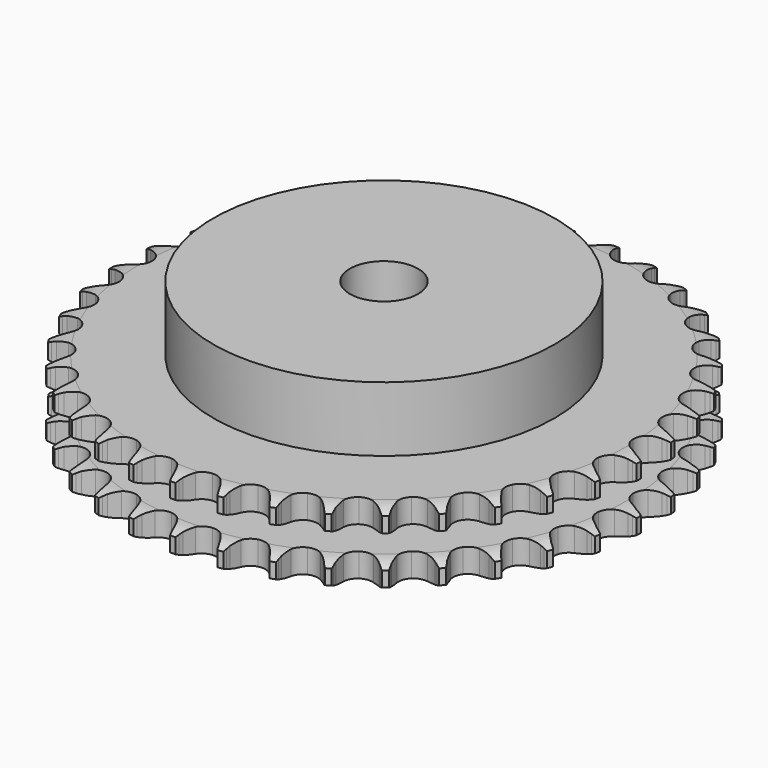
from build123d import *

# Parameters (mm, degrees)
PAD_DEPTH         = 21
SKETCH001_R       = 50
PAD001_DEPTH      = 40
SKETCH002_R       = 10
POCKET_DEPTH      = 0.001
POCKET_DEPTH_BACK = 40.001


with BuildPart() as part:
    # Sprocket → Pad (new body)
    with BuildSketch(Plane.XY):
        with BuildLine():
            ThreePointArc((-6.673059, 78.402771), (-5.93416, 77.380789), (-5.393637, 76.241379))
            Line((-5.393637, 76.241379), (-4.978563, 75.109289))
            ThreePointArc((-4.978563, 75.109289), (-4.321728, 73.651627), (-3.462685, 72.3032))
            ThreePointArc((-3.462685, 72.3032), (-1.937803, 71.022139), (0, 70.562469))
            ThreePointArc((0, 70.562469), (1.937803, 71.022139), (3.462685, 72.3032))
            ThreePointArc((3.462685, 72.3032), (4.321728, 73.651627), (4.978563, 75.109289))
            Line((4.978563, 75.109289), (5.393637, 76.241379))
            ThreePointArc((5.393637, 76.241379), (5.93416, 77.380789), (6.673059, 78.402771))
            ThreePointArc((6.673059, 78.402771), (7.228614, 77.270614), (7.568801, 76.056245))
            Line((7.568801, 76.056245), (7.78658, 74.870292))
            ThreePointArc((7.78658, 74.870292), (8.187622, 73.322591), (8.806423, 71.848381))
            ThreePointArc((8.806423, 71.848381), (10.09287, 70.328041), (11.925115, 69.547492))
            ThreePointArc((11.925115, 69.547492), (13.91273, 69.67306), (15.632177, 70.677987))
            Line((15.632177, 70.677987), (17.600483, 73.187529))
            ThreePointArc((17.600483, 73.187529), (17.886516, 73.718501), (18.20091, 74.233187))
            ThreePointArc((18.20091, 74.233187), (18.926219, 75.264859), (19.827206, 76.147266))
            ThreePointArc((19.827206, 76.147266), (20.183434, 74.937505), (20.313499, 73.683112))
            Line((20.313499, 73.683112), (20.327718, 72.477412))
            ThreePointArc((20.327718, 72.477412), (20.461428, 70.884198), (20.822186, 69.326614))
            ThreePointArc((20.822186, 69.326614), (21.83319, 67.610733), (23.507167, 66.531761))
            ThreePointArc((23.507167, 66.531761), (25.487412, 66.319614), (27.35196, 67.019498))
            Line((27.35196, 67.019498), (29.716068, 69.160297))
            ThreePointArc((29.716068, 69.160297), (30.087722, 69.635291), (30.484576, 70.089442))
            ThreePointArc((30.484576, 70.089442), (31.373806, 70.983696), (32.41096, 71.701143))
            ThreePointArc((32.41096, 71.701143), (32.557614, 70.448581), (32.473814, 69.190249))
            Line((32.473814, 69.190249), (32.284064, 67.99949))
            ThreePointArc((32.284064, 67.99949), (32.146597, 66.406595), (32.238932, 64.810448))
            ThreePointArc((32.238932, 64.810448), (32.945409, 62.948387), (34.412959, 61.602032))
            ThreePointArc((34.412959, 61.602032), (36.328868, 61.058273), (38.284878, 61.43298))
            Line((38.284878, 61.43298), (40.976777, 63.143449))
            ThreePointArc((40.976777, 63.143449), (41.423359, 63.548801), (41.891256, 63.929351))
            ThreePointArc((41.891256, 63.929351), (42.918825, 64.660461), (44.06231, 65.192308))
            ThreePointArc((44.06231, 65.192308), (43.99517, 63.932978), (43.699917, 62.706909))
            Line((43.699917, 62.706909), (43.311657, 61.565345))
            ThreePointArc((43.311657, 61.565345), (42.906966, 60.018595), (42.728223, 58.429802))
            ThreePointArc((42.728223, 58.429802), (43.109848, 56.475131), (44.328754, 54.900124))
            ThreePointArc((44.328754, 54.900124), (46.125209, 54.040397), (48.116408, 54.079147))
            Line((48.116408, 54.079147), (51.058658, 55.310079))
            ThreePointArc((51.058658, 55.310079), (51.567321, 55.634128), (52.092801, 55.930128))
            ThreePointArc((52.092801, 55.930128), (53.229148, 56.477062), (54.446067, 56.80801))
            ThreePointArc((54.446067, 56.80801), (54.167066, 55.578141), (53.668852, 54.419606))
            Line((53.668852, 54.419606), (53.093252, 53.360078))
            ThreePointArc((53.093252, 53.360078), (52.43298, 51.90397), (51.988301, 50.368238))
            ThreePointArc((51.988301, 50.368238), (52.034095, 48.377188), (52.969291, 46.61884))
            ThreePointArc((52.969291, 46.61884), (54.594611, 45.467877), (56.563718, 45.169555))
            Line((56.563718, 45.169555), (59.671674, 45.885539))
            ThreePointArc((59.671674, 45.885539), (60.227785, 46.118962), (60.795731, 46.321898))
            ThreePointArc((60.795731, 46.321898), (62.008165, 46.668922), (63.263511, 46.789448))
            ThreePointArc((63.263511, 46.789448), (62.780673, 45.624421), (62.093833, 44.566749))
            Line((62.093833, 44.566749), (61.347451, 43.619739))
            ThreePointArc((61.347451, 43.619739), (60.450593, 42.296162), (59.75277, 40.857671))
            ThreePointArc((59.75277, 40.857671), (59.461417, 38.887521), (60.085999, 36.996417))
            ThreePointArc((60.085999, 36.996417), (61.493426, 35.587329), (63.383792, 34.960517))
            Line((63.383792, 34.960517), (66.568045, 35.140956))
            ThreePointArc((66.568045, 35.140956), (67.155606, 35.277038), (67.749679, 35.381071))
            ThreePointArc((67.749679, 35.381071), (69.00332, 35.518201), (70.260978, 35.42484))
            ThreePointArc((70.260978, 35.42484), (69.588195, 34.35817), (68.732487, 33.431788))
            Line((68.732487, 33.431788), (67.836796, 32.624539))
            ThreePointArc((67.836796, 32.624539), (66.729152, 31.47157), (65.798261, 30.171703))
            ThreePointArc((65.798261, 30.171703), (65.178141, 28.279131), (65.474141, 26.309674))
            ThreePointArc((65.474141, 26.309674), (66.623186, 24.682998), (68.38043, 23.745729))
            Line((68.38043, 23.745729), (71.549375, 23.385431))
            ThreePointArc((71.549375, 23.385431), (72.151482, 23.420257), (72.754591, 23.422396))
            ThreePointArc((72.754591, 23.422396), (74.013375, 23.345686), (75.237164, 23.041123))
            ThreePointArc((75.237164, 23.041123), (74.393791, 22.103497), (73.393832, 21.335056))
            Line((73.393832, 21.335056), (72.374599, 20.690791))
            ThreePointArc((72.374599, 20.690791), (71.088036, 19.741599), (69.950856, 18.617751))
            ThreePointArc((69.950856, 18.617751), (69.019809, 16.857202), (68.978712, 14.86605))
            ThreePointArc((68.978712, 14.86605), (69.836319, 13.068583), (71.409888, 11.84782))
            Line((71.409888, 11.84782), (74.472359, 10.95715))
            ThreePointArc((74.472359, 10.95715), (75.071691, 10.889719), (75.666487, 10.7899))
            ThreePointArc((75.666487, 10.7899), (76.8942, 10.501559), (78.048915, 9.994555))
            ThreePointArc((78.048915, 9.994555), (77.059213, 9.212947), (75.943771, 8.624553))
            Line((75.943771, 8.624553), (74.830317, 8.161806))
            ThreePointArc((74.830317, 8.161806), (73.401845, 7.443697), (72.091092, 6.528199))
            ThreePointArc((72.091092, 6.528199), (70.875903, 4.950322), (70.49889, 2.994756))
            ThreePointArc((70.49889, 2.994756), (71.040389, 1.078208), (72.385013, -0.39093))
            Line((72.385013, -0.39093), (75.252909, -1.786349))
            ThreePointArc((75.252909, -1.786349), (75.832225, -1.954097), (76.401595, -2.153001))
            ThreePointArc((76.401595, -2.153001), (77.562919, -2.644679), (78.61534, -3.339539))
            ThreePointArc((78.61534, -3.339539), (77.507782, -3.942643), (76.308945, -4.334063))
            Line((76.308945, -4.334063), (75.133303, -4.601979))
            ThreePointArc((75.133303, -4.601979), (73.604017, -5.068346), (72.157398, -5.749156))
            ThreePointArc((72.157398, -5.749156), (70.693027, -7.098969), (69.990944, -8.962691))
            ThreePointArc((69.990944, -8.962691), (70.200755, -10.943185), (71.277753, -12.618433))
            Line((71.277753, -12.618433), (73.86857, -14.478457))
            ThreePointArc((73.86857, -14.478457), (74.411203, -14.741698), (74.938769, -15.033964))
            ThreePointArc((74.938769, -15.033964), (76.000294, -15.714835), (76.920145, -16.577559))
            ThreePointArc((76.920145, -16.577559), (75.726593, -16.984811), (74.47885, -17.167996))
            Line((74.47885, -17.167996), (73.27484, -17.233374))
            ThreePointArc((73.27484, -17.233374), (71.688736, -17.434581), (70.147867, -17.861119))
            ThreePointArc((70.147867, -17.861119), (68.47644, -18.944037), (67.469486, -20.662298))
            ThreePointArc((67.469486, -20.662298), (67.341574, -22.649763), (68.119961, -24.482927))
            Line((68.119961, -24.482927), (70.359167, -26.754047))
            ThreePointArc((70.359167, -26.754047), (70.849507, -27.105206), (71.320091, -27.482428))
            ThreePointArc((71.320091, -27.482428), (72.251279, -28.332903), (73.012098, -29.338674))
            ThreePointArc((73.012098, -29.338674), (71.766888, -29.538356), (70.506134, -29.508037))
            Line((70.506134, -29.508037), (69.308394, -29.368995))
            ThreePointArc((69.308394, -29.368995), (67.7111, -29.299256), (66.12031, -29.459251))
            ThreePointArc((66.12031, -29.459251), (64.289911, -30.244118), (63.007053, -31.767488))
            ThreePointArc((63.007053, -31.767488), (62.545098, -33.704748), (63.002483, -35.643092))
            Line((63.002483, -35.643092), (64.825659, -38.259971))
            ThreePointArc((64.825659, -38.259971), (65.249599, -38.688947), (65.649663, -39.140272))
            ThreePointArc((65.649663, -39.140272), (66.423726, -40.135886), (67.003625, -41.255768))
            ThreePointArc((67.003625, -41.255768), (65.742581, -41.242137), (64.505085, -40.999185))
            Line((64.505085, -40.999185), (63.348072, -40.659725))
            ThreePointArc((63.348072, -40.659725), (61.78554, -40.321044), (60.190592, -40.209893))
            ThreePointArc((60.190592, -40.209893), (58.253878, -40.674132), (56.732023, -41.958785))
            ThreePointArc((56.732023, -41.958785), (55.949314, -43.790109), (56.072538, -45.77787))
            Line((56.072538, -45.77787), (57.427234, -48.665226))
            ThreePointArc((57.427234, -48.665226), (57.772579, -49.159678), (58.090615, -49.672122))
            ThreePointArc((58.090615, -49.672122), (58.685284, -50.784232), (59.067581, -51.986009))
            ThreePointArc((59.067581, -51.986009), (57.826978, -51.759456), (56.648343, -51.310861))
            Line((56.648343, -51.310861), (55.565341, -50.780747))
            ThreePointArc((55.565341, -50.780747), (54.082521, -50.18287), (52.529301, -49.80377))
            ThreePointArc((52.529301, -49.80377), (50.541988, -49.934025), (48.824915, -50.943005))
            ThreePointArc((48.824915, -50.943005), (47.74397, -52.615708), (47.529488, -54.595702))
            Line((47.529488, -54.595702), (48.376732, -57.67047))
            ThreePointArc((48.376732, -57.67047), (48.633547, -58.216174), (48.860405, -58.774995))
            ThreePointArc((48.860405, -58.774995), (49.258572, -59.971608), (49.432269, -61.220707))
            ThreePointArc((49.432269, -61.220707), (48.2478, -60.78775), (47.16193, -60.146418))
            Line((47.16193, -60.146418), (46.184096, -59.440901))
            ThreePointArc((46.184096, -59.440901), (44.823647, -58.601025), (43.356836, -57.964882))
            ThreePointArc((43.356836, -57.964882), (41.376096, -57.757407), (39.513204, -58.461687))
            ThreePointArc((39.513204, -58.461687), (38.165119, -59.927649), (37.619101, -61.842915))
            Line((37.619101, -61.842915), (37.93452, -65.016641))
            ThreePointArc((37.93452, -65.016641), (38.095417, -65.597896), (38.22457, -66.187019))
            ThreePointArc((38.22457, -66.187019), (38.414782, -67.43371), (38.374881, -68.694197))
            ThreePointArc((38.374881, -68.694197), (37.280619, -68.067291), (36.318755, -67.251671))
            Line((36.318755, -67.251671), (35.474219, -66.391048))
            ThreePointArc((35.474219, -66.391048), (34.275279, -65.333336), (32.937075, -64.458451))
            ThreePointArc((32.937075, -64.458451), (31.01989, -63.919213), (29.064769, -64.298532))
            ThreePointArc((29.064769, -64.298532), (27.488326, -65.51558), (26.626481, -67.31102))
            Line((26.626481, -67.31102), (26.401001, -70.492401))
            ThreePointArc((26.401001, -70.492401), (26.461351, -71.092487), (26.489084, -71.694962))
            ThreePointArc((26.489084, -71.694962), (26.465868, -72.955867), (26.213518, -74.19148))
            ThreePointArc((26.213518, -74.19148), (25.240943, -73.388661), (24.430755, -72.422216))
            Line((24.430755, -72.422216), (23.743813, -71.431245))
            ThreePointArc((23.743813, -71.431245), (22.740873, -70.186126), (21.569774, -69.097668))
            ThreePointArc((21.569774, -69.097668), (19.771297, -68.24218), (17.780194, -68.285626))
            ThreePointArc((17.780194, -68.285626), (16.020745, -69.218748), (14.867866, -70.842709))
            Line((14.867866, -70.842709), (14.107973, -73.940222))
            ThreePointArc((14.107973, -73.940222), (14.06604, -74.541876), (13.991555, -75.140373))
            ThreePointArc((13.991555, -75.140373), (13.755579, -76.379217), (13.298039, -77.554409))
            ThreePointArc((13.298039, -77.554409), (12.475131, -76.598772), (11.839927, -75.509306))
            Line((11.839927, -75.509306), (11.330341, -74.416495))
            ThreePointArc((11.330341, -74.416495), (10.552253, -73.019788), (9.58195, -71.74907))
            ThreePointArc((9.58195, -71.74907), (7.953921, -70.601944), (5.984115, -70.308267))
            ThreePointArc((5.984115, -70.308267), (4.092276, -70.930619), (2.681529, -72.336383))
            Line((2.681529, -72.336383), (1.409085, -75.260919))
            ThreePointArc((1.409085, -75.260919), (1.266074, -75.846831), (1.091514, -76.424131))
            ThreePointArc((1.091514, -76.424131), (0.649567, -77.605276), (0, -78.686239))
            ThreePointArc((0, -78.686239), (-0.649567, -77.605276), (-1.091514, -76.424131))
            Line((-1.091514, -76.424131), (-1.409085, -75.260919))
            ThreePointArc((-1.409085, -75.260919), (-1.939936, -73.752804), (-2.681529, -72.336383))
            ThreePointArc((-2.681529, -72.336383), (-4.092276, -70.930619), (-5.984115, -70.308267))
            ThreePointArc((-5.984115, -70.308267), (-7.953921, -70.601944), (-9.58195, -71.74907))
            Line((-9.58195, -71.74907), (-11.330341, -74.416495))
            ThreePointArc((-11.330341, -74.416495), (-11.570314, -74.969811), (-11.839927, -75.509306))
            ThreePointArc((-11.839927, -75.509306), (-12.475131, -76.598772), (-13.298039, -77.554409))
            ThreePointArc((-13.298039, -77.554409), (-13.755579, -76.379217), (-13.991555, -75.140373))
            Line((-13.991555, -75.140373), (-14.107973, -73.940222))
            ThreePointArc((-14.107973, -73.940222), (-14.376316, -72.364087), (-14.867866, -70.842709))
            ThreePointArc((-14.867866, -70.842709), (-16.020745, -69.218748), (-17.780194, -68.285626))
            ThreePointArc((-17.780194, -68.285626), (-19.771297, -68.24218), (-21.569774, -69.097668))
            Line((-21.569774, -69.097668), (-23.743813, -71.431245))
            ThreePointArc((-23.743813, -71.431245), (-24.073845, -71.936046), (-24.430755, -72.422216))
            ThreePointArc((-24.430755, -72.422216), (-25.240943, -73.388661), (-26.213518, -74.19148))
            ThreePointArc((-26.213518, -74.19148), (-26.465868, -72.955867), (-26.489084, -71.694962))
            Line((-26.489084, -71.694962), (-26.401001, -70.492401))
            ThreePointArc((-26.401001, -70.492401), (-26.399116, -68.893586), (-26.626481, -67.31102))
            ThreePointArc((-26.626481, -67.31102), (-27.488326, -65.51558), (-29.064769, -64.298532))
            ThreePointArc((-29.064769, -64.298532), (-31.01989, -63.919213), (-32.937075, -64.458451))
            Line((-32.937075, -64.458451), (-35.474219, -66.391048))
            ThreePointArc((-35.474219, -66.391048), (-35.884816, -66.832812), (-36.318755, -67.251671))
            ThreePointArc((-36.318755, -67.251671), (-37.280619, -68.067291), (-38.374881, -68.694197))
            ThreePointArc((-38.374881, -68.694197), (-38.414782, -67.43371), (-38.22457, -66.187019))
            Line((-38.22457, -66.187019), (-37.93452, -65.016641))
            ThreePointArc((-37.93452, -65.016641), (-37.662461, -63.441142), (-37.619101, -61.842915))
            ThreePointArc((-37.619101, -61.842915), (-38.165119, -59.927649), (-39.513204, -58.461687))
            ThreePointArc((-39.513204, -58.461687), (-41.376096, -57.757407), (-43.356836, -57.964882))
            Line((-43.356836, -57.964882), (-46.184096, -59.440901))
            ThreePointArc((-46.184096, -59.440901), (-46.663445, -59.80692), (-47.16193, -60.146418))
            ThreePointArc((-47.16193, -60.146418), (-48.2478, -60.78775), (-49.432269, -61.220707))
            ThreePointArc((-49.432269, -61.220707), (-49.258572, -59.971608), (-48.860405, -58.774995))
            Line((-48.860405, -58.774995), (-48.376732, -57.67047))
            ThreePointArc((-48.376732, -57.67047), (-47.842326, -56.163612), (-47.529488, -54.595702))
            ThreePointArc((-47.529488, -54.595702), (-47.74397, -52.615708), (-48.824915, -50.943005))
            ThreePointArc((-48.824915, -50.943005), (-50.541988, -49.934025), (-52.529301, -49.80377))
            Line((-52.529301, -49.80377), (-55.565341, -50.780747))
            ThreePointArc((-55.565341, -50.780747), (-56.099653, -51.060491), (-56.648343, -51.310861))
            ThreePointArc((-56.648343, -51.310861), (-57.826978, -51.759456), (-59.067581, -51.986009))
            ThreePointArc((-59.067581, -51.986009), (-58.685284, -50.784232), (-58.090615, -49.672122))
            Line((-58.090615, -49.672122), (-57.427234, -48.665226))
            ThreePointArc((-57.427234, -48.665226), (-56.645854, -47.270358), (-56.072538, -45.77787))
            ThreePointArc((-56.072538, -45.77787), (-55.949314, -43.790109), (-56.732023, -41.958785))
            ThreePointArc((-56.732023, -41.958785), (-58.253878, -40.674132), (-60.190592, -40.209893))
            Line((-60.190592, -40.209893), (-63.348072, -40.659725))
            ThreePointArc((-63.348072, -40.659725), (-63.921975, -40.845145), (-64.505085, -40.999185))
            ThreePointArc((-64.505085, -40.999185), (-65.742581, -41.242137), (-67.003625, -41.255768))
            ThreePointArc((-67.003625, -41.255768), (-66.423726, -40.135886), (-65.649663, -39.140272))
            Line((-65.649663, -39.140272), (-64.825659, -38.259971))
            ThreePointArc((-64.825659, -38.259971), (-63.819784, -37.017221), (-63.002483, -35.643092))
            ThreePointArc((-63.002483, -35.643092), (-62.545098, -33.704748), (-63.007053, -31.767488))
            ThreePointArc((-63.007053, -31.767488), (-64.289911, -30.244118), (-66.12031, -29.459251))
            Line((-66.12031, -29.459251), (-69.308394, -29.368995))
            ThreePointArc((-69.308394, -29.368995), (-69.905379, -29.454759), (-70.506134, -29.508037))
            ThreePointArc((-70.506134, -29.508037), (-71.766888, -29.538356), (-73.012098, -29.338674))
            ThreePointArc((-73.012098, -29.338674), (-72.251279, -28.332903), (-71.320091, -27.482428))
            Line((-71.320091, -27.482428), (-70.359167, -26.754047))
            ThreePointArc((-70.359167, -26.754047), (-69.157736, -25.699166), (-68.119961, -24.482927))
            ThreePointArc((-68.119961, -24.482927), (-67.341574, -22.649763), (-67.469486, -20.662298))
            ThreePointArc((-67.469486, -20.662298), (-68.47644, -18.944037), (-70.147867, -17.861119))
            Line((-70.147867, -17.861119), (-73.27484, -17.233374))
            ThreePointArc((-73.27484, -17.233374), (-73.877732, -17.217013), (-74.47885, -17.167996))
            ThreePointArc((-74.47885, -17.167996), (-75.726593, -16.984811), (-76.920145, -16.577559))
            ThreePointArc((-76.920145, -16.577559), (-76.000294, -15.714835), (-74.938769, -15.033964))
            Line((-74.938769, -15.033964), (-73.86857, -14.478457))
            ThreePointArc((-73.86857, -14.478457), (-72.506145, -13.641793), (-71.277753, -12.618433))
            ThreePointArc((-71.277753, -12.618433), (-70.200755, -10.943185), (-69.990944, -8.962691))
            ThreePointArc((-69.990944, -8.962691), (-70.693027, -7.098969), (-72.157398, -5.749156))
            Line((-72.157398, -5.749156), (-75.133303, -4.601979))
            ThreePointArc((-75.133303, -4.601979), (-75.724757, -4.483964), (-76.308945, -4.334063))
            ThreePointArc((-76.308945, -4.334063), (-77.507782, -3.942643), (-78.61534, -3.339539))
            ThreePointArc((-78.61534, -3.339539), (-77.562919, -2.644679), (-76.401595, -2.153001))
            Line((-76.401595, -2.153001), (-75.252909, -1.786349))
            ThreePointArc((-75.252909, -1.786349), (-73.768684, -1.19197), (-72.385013, -0.39093))
            ThreePointArc((-72.385013, -0.39093), (-71.040389, 1.078208), (-70.49889, 2.994756))
            ThreePointArc((-70.49889, 2.994756), (-70.875903, 4.950322), (-72.091092, 6.528199))
            Line((-72.091092, 6.528199), (-74.830317, 8.161806))
            ThreePointArc((-74.830317, 8.161806), (-75.393319, 8.37808), (-75.943771, 8.624553))
            ThreePointArc((-75.943771, 8.624553), (-77.059213, 9.212947), (-78.048915, 9.994555))
            ThreePointArc((-78.048915, 9.994555), (-76.8942, 10.501559), (-75.666487, 10.7899))
            Line((-75.666487, 10.7899), (-74.472359, 10.95715))
            ThreePointArc((-74.472359, 10.95715), (-72.909032, 11.292143), (-71.409888, 11.84782))
            ThreePointArc((-71.409888, 11.84782), (-69.836319, 13.068583), (-68.978712, 14.86605))
            ThreePointArc((-68.978712, 14.86605), (-69.019809, 16.857202), (-69.950856, 18.617751))
            Line((-69.950856, 18.617751), (-72.374599, 20.690791))
            ThreePointArc((-72.374599, 20.690791), (-72.892953, 20.999101), (-73.393832, 21.335056))
            ThreePointArc((-73.393832, 21.335056), (-74.393791, 22.103497), (-75.237164, 23.041123))
            ThreePointArc((-75.237164, 23.041123), (-74.013375, 23.345686), (-72.754591, 23.422396))
            Line((-72.754591, 23.422396), (-71.549375, 23.385431))
            ThreePointArc((-71.549375, 23.385431), (-69.951921, 23.451403), (-68.38043, 23.745729))
            ThreePointArc((-68.38043, 23.745729), (-66.623186, 24.682998), (-65.474141, 26.309674))
            ThreePointArc((-65.474141, 26.309674), (-65.178141, 28.279131), (-65.798261, 30.171703))
            Line((-65.798261, 30.171703), (-67.836796, 32.624539))
            ThreePointArc((-67.836796, 32.624539), (-68.295588, 33.016017), (-68.732487, 33.431788))
            ThreePointArc((-68.732487, 33.431788), (-69.588195, 34.35817), (-70.260978, 35.42484))
            ThreePointArc((-70.260978, 35.42484), (-69.00332, 35.518201), (-67.749679, 35.381071))
            Line((-67.749679, 35.381071), (-66.568045, 35.140956))
            ThreePointArc((-66.568045, 35.140956), (-64.98242, 34.936007), (-63.383792, 34.960517))
            ThreePointArc((-63.383792, 34.960517), (-61.493426, 35.587329), (-60.085999, 36.996417))
            ThreePointArc((-60.085999, 36.996417), (-59.461417, 38.887521), (-59.75277, 40.857671))
            Line((-59.75277, 40.857671), (-61.347451, 43.619739))
            ThreePointArc((-61.347451, 43.619739), (-61.733485, 44.083122), (-62.093833, 44.566749))
            ThreePointArc((-62.093833, 44.566749), (-62.780673, 45.624421), (-63.263511, 46.789448))
            ThreePointArc((-63.263511, 46.789448), (-62.008165, 46.668922), (-60.795731, 46.321898))
            Line((-60.795731, 46.321898), (-59.671674, 45.885539))
            ThreePointArc((-59.671674, 45.885539), (-58.143493, 45.415567), (-56.563718, 45.169555))
            ThreePointArc((-56.563718, 45.169555), (-54.594611, 45.467877), (-52.969291, 46.61884))
            ThreePointArc((-52.969291, 46.61884), (-52.034095, 48.377188), (-51.988301, 50.368238))
            Line((-51.988301, 50.368238), (-53.093252, 53.360078))
            ThreePointArc((-53.093252, 53.360078), (-53.395421, 53.882036), (-53.668852, 54.419606))
            ThreePointArc((-53.668852, 54.419606), (-54.167066, 55.578141), (-54.446067, 56.80801))
            ThreePointArc((-54.446067, 56.80801), (-53.229148, 56.477062), (-52.092801, 55.930128))
            Line((-52.092801, 55.930128), (-51.058658, 55.310079))
            ThreePointArc((-51.058658, 55.310079), (-49.631884, 54.588604), (-48.116408, 54.079147))
            ThreePointArc((-48.116408, 54.079147), (-46.125209, 54.040397), (-44.328754, 54.900124))
            ThreePointArc((-44.328754, 54.900124), (-43.109848, 56.475131), (-42.728223, 58.429802))
            Line((-42.728223, 58.429802), (-43.311657, 61.565345))
            ThreePointArc((-43.311657, 61.565345), (-43.521268, 62.130862), (-43.699917, 62.706909))
            ThreePointArc((-43.699917, 62.706909), (-43.99517, 63.932978), (-44.06231, 65.192308))
            ThreePointArc((-44.06231, 65.192308), (-42.918825, 64.660461), (-41.891256, 63.929351))
            Line((-41.891256, 63.929351), (-40.976777, 63.143449))
            ThreePointArc((-40.976777, 63.143449), (-39.692455, 62.191225), (-38.284878, 61.43298))
            ThreePointArc((-38.284878, 61.43298), (-36.328868, 61.058273), (-34.412959, 61.602032))
            ThreePointArc((-34.412959, 61.602032), (-32.945409, 62.948387), (-32.238932, 64.810448))
            Line((-32.238932, 64.810448), (-32.284064, 67.99949))
            ThreePointArc((-32.284064, 67.99949), (-32.395087, 68.592296), (-32.473814, 69.190249))
            ThreePointArc((-32.473814, 69.190249), (-32.557614, 70.448581), (-32.41096, 71.701143))
            ThreePointArc((-32.41096, 71.701143), (-31.373806, 70.983696), (-30.484576, 70.089442))
            Line((-30.484576, 70.089442), (-29.716068, 69.160297))
            ThreePointArc((-29.716068, 69.160297), (-28.611148, 68.004719), (-27.35196, 67.019498))
            ThreePointArc((-27.35196, 67.019498), (-25.487412, 66.319614), (-23.507167, 66.531761))
            ThreePointArc((-23.507167, 66.531761), (-21.83319, 67.610733), (-20.822186, 69.326614))
            Line((-20.822186, 69.326614), (-20.327718, 72.477412))
            ThreePointArc((-20.327718, 72.477412), (-20.336959, 73.080455), (-20.313499, 73.683112))
            ThreePointArc((-20.313499, 73.683112), (-20.183434, 74.937505), (-19.827206, 76.147266))
            ThreePointArc((-19.827206, 76.147266), (-18.926219, 75.264859), (-18.20091, 74.233187))
            Line((-18.20091, 74.233187), (-17.600483, 73.187529))
            ThreePointArc((-17.600483, 73.187529), (-16.706749, 71.86184), (-15.632177, 70.677987))
            ThreePointArc((-15.632177, 70.677987), (-13.91273, 69.67306), (-11.925115, 69.547492))
            ThreePointArc((-11.925115, 69.547492), (-10.09287, 70.328041), (-8.806423, 71.848381))
            Line((-8.806423, 71.848381), (-7.78658, 74.870292))
            ThreePointArc((-7.78658, 74.870292), (-7.693774, 75.466222), (-7.568801, 76.056245))
            ThreePointArc((-7.568801, 76.056245), (-7.228614, 77.270614), (-6.673059, 78.402771))
        make_face()
    extrude(amount=PAD_DEPTH)

    # Sketch → Groove (revolve, cut)
    with BuildSketch(Plane.XZ):
        with BuildLine():
            ThreePointArc((71.633431, 0), (74.54032, 0.329167), (77.3, 1.3))
            Line((77.3, 1.3), (77.3, 5.7))
            ThreePointArc((77.3, 5.7), (74.54032, 6.670833), (71.633431, 7))
            Line((50, 7), (71.633431, 7))
            Line((50, 14), (50, 7))
            Line((71.633431, 14), (50, 14))
            ThreePointArc((71.633431, 14), (74.54032, 14.329167), (77.3, 15.3))
            Line((77.3, 15.3), (77.3, 19.7))
            ThreePointArc((77.3, 19.7), (74.54032, 20.670833), (71.633431, 21))
            Line((71.633431, 21), (81.633431, 21))
            Line((81.633431, 21), (81.633431, 0))
            Line((71.633431, 0), (81.633431, 0))
        make_face()
    revolve(axis=Axis((0, 0, 0), (0, 0, 1)), mode=Mode.SUBTRACT)

    # Sketch001 → Pad001 (join)
    with BuildSketch(Plane.XY):
        Circle(SKETCH001_R)
    extrude(amount=PAD001_DEPTH)

    # Sketch002 → Pocket (cut, two sides)
    with BuildSketch(Plane.XY) as pocket_sk:
        Circle(SKETCH002_R)
    extrude(amount=-POCKET_DEPTH, mode=Mode.SUBTRACT)
    extrude(pocket_sk.sketch, amount=POCKET_DEPTH_BACK, mode=Mode.SUBTRACT)


solid = part.part
